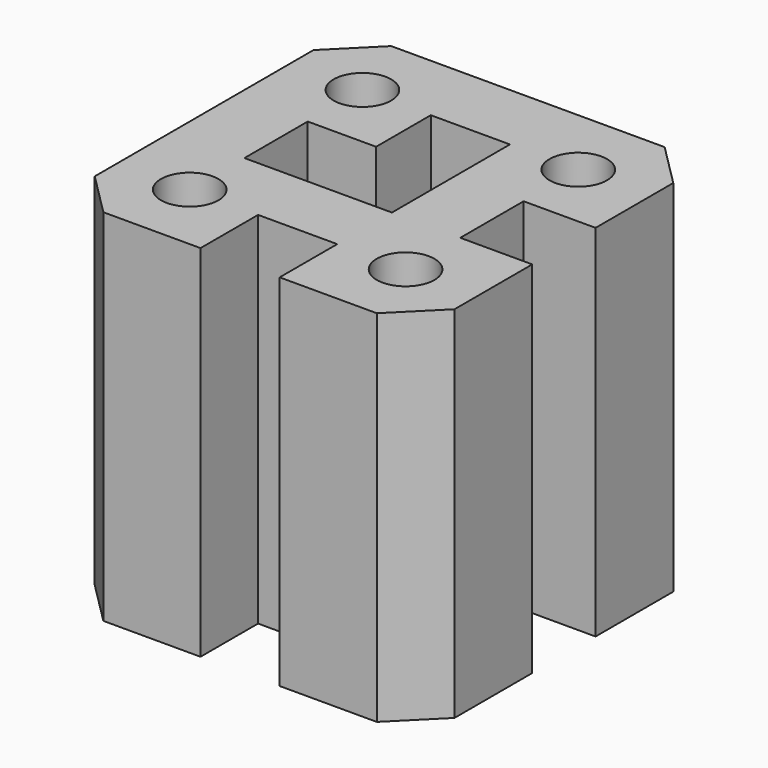
from build123d import *

# Parameters (mm, degrees)
F0_R     = 20
F1_DEPTH = 125


with BuildPart() as f1:
    # F0 (on Top) → F1 (new body, symmetric)
    with BuildSketch(Plane.XY):
        Polygon((27.5, -125), (95, -125), (125, -95), (125, -27.5), (75, -27.5), (75, 27.5), (125, 27.5), (125, 95), (95, 125), (-95, 125), (-125, 95), (-125, -95), (-95, -125), (-27.5, -125), (-27.5, -75), (27.5, -75), align=None)
        with Locations((-75, -75)):
            Circle(F0_R, mode=Mode.SUBTRACT)
        with Locations((75, -75)):
            Circle(F0_R, mode=Mode.SUBTRACT)
        Polygon((27.5, -27.5), (-75, -27.5), (-75, 27.5), (-27.5, 27.5), (-27.5, 75), (27.5, 75), align=None, mode=Mode.SUBTRACT)
        with Locations((-75, 75)):
            Circle(F0_R, mode=Mode.SUBTRACT)
        with Locations((75, 75)):
            Circle(F0_R, mode=Mode.SUBTRACT)
    extrude(amount=F1_DEPTH, both=True)


solid = f1.part
